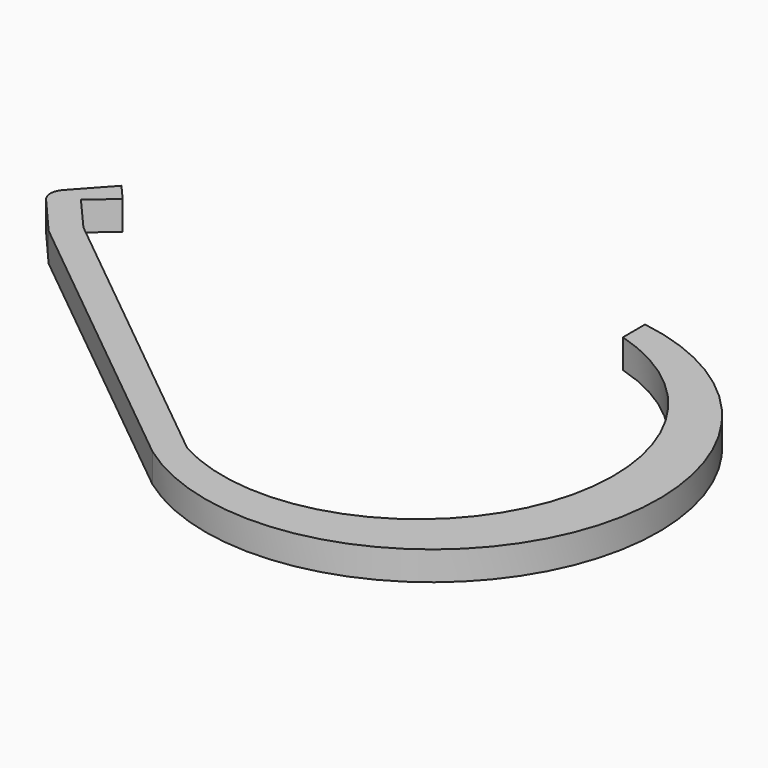
from build123d import *

# Parameters (mm, degrees)
F1_DEPTH = 9.398
F2_DEPTH = 9.398
F3_R     = 5.08


with BuildPart() as f1:
    # F0 (on Top) → F1 (new body)
    with BuildSketch(Plane.XY):
        Polygon((-252.907044, 71.313885), (-156.493339, -6.999044), (-150.8083, 0), (-247.171892, 78.272225), align=None)
        with BuildLine():
            Line((-150.8083, 0), (-156.493339, -6.999044))
            ThreePointArc((-156.493339, -6.999044), (-45.311266, 25.097468), (-102.540672, 125.677956))
            Line((-102.540672, 125.677956), (-102.540672, 116.660956))
            ThreePointArc((-102.540672, 116.660956), (-61.639012, 31.42252), (-150.8083, 0))
        make_face()
    extrude(amount=F1_DEPTH)

    # F0 (on Top) → F2 (join)
    with BuildSketch(Plane.XY):
        with BuildLine():
            Line((-150.8083, 0), (-156.493339, -6.999044))
            ThreePointArc((-156.493339, -6.999044), (-45.311266, 25.097468), (-102.540672, 125.677956))
            Line((-102.540672, 125.677956), (-102.540672, 116.660956))
            ThreePointArc((-102.540672, 116.660956), (-61.639012, 31.42252), (-150.8083, 0))
        make_face()
        Polygon((-252.907044, 71.313885), (-156.493339, -6.999044), (-150.8083, 0), (-247.171892, 78.272225), align=None)
        Polygon((-267.090976, 87.734386), (-252.907044, 71.313885), (-247.171892, 78.272225), (-257.171273, 89.76128), (-249.178657, 96.717571), (-253.950546, 102.200361), align=None)
    extrude(amount=F2_DEPTH)

    # F3
    f3_edges = [f1.edges().sort_by_distance(p)[0] for p in [
        (-267.090976, 87.734386, 4.699),
    ]]
    fillet(f3_edges, radius=F3_R)


solid = f1.part
